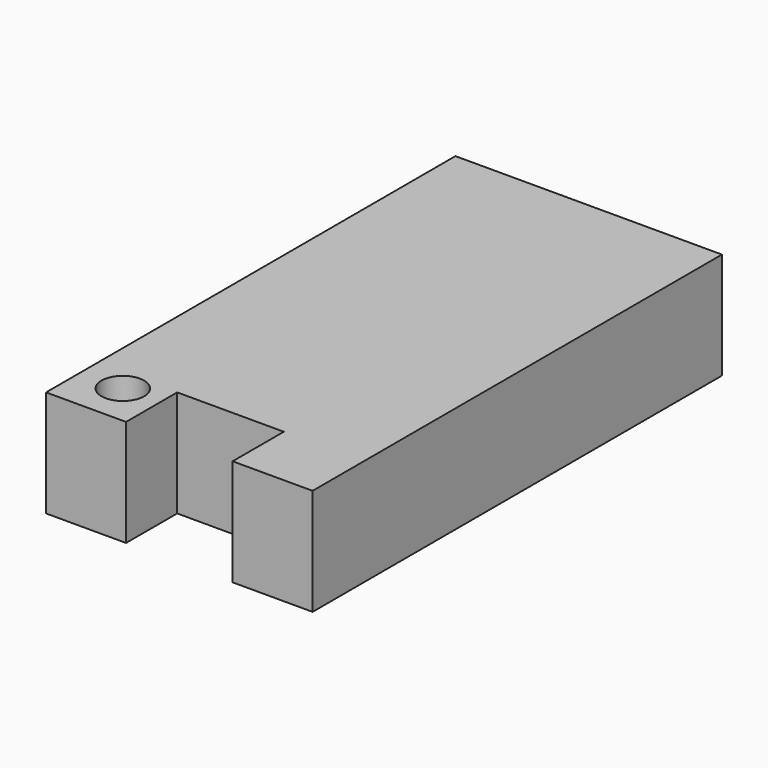
from build123d import *

# Parameters (mm, degrees)
F1_DEPTH = 25.4
F2_R     = 5.08
F3_DEPTH = 25.4


with BuildPart() as f1:
    # F0 (on Top) → F1 (new body)
    with BuildSketch(Plane.XY):
        Polygon((31.75, -60.96), (31.75, 60.96), (-31.75, 60.96), (-31.75, -60.96), (-12.7, -60.96), (-12.7, -45.72), (12.7, -45.72), (12.7, -60.96), align=None)
    extrude(amount=F1_DEPTH)

    # F2 (on face) → F3 (cut)
    with BuildSketch(Plane.XY.offset(25.4)):
        with Locations((-21.59, -50.8)):
            Circle(F2_R)
    extrude(amount=-F3_DEPTH, mode=Mode.SUBTRACT)


solid = f1.part
